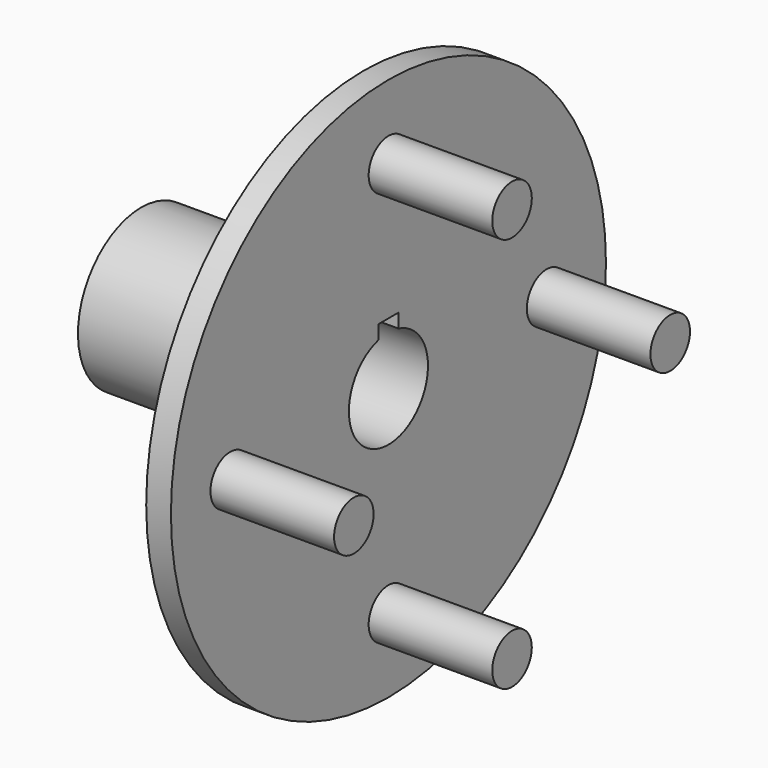
from build123d import *

# Parameters (mm, degrees)
F2_W     = 6.35
F2_H     = 6.35
F3_DEPTH = 63.501
F4_R     = 6.35
F5_DEPTH = 31.75


with BuildPart() as f1:
    # F0 (on Front) → F1 (revolve)
    with BuildSketch(Plane.XZ):
        Polygon((0, 20.32), (0, 12.7), (63.5, 12.7), (63.5, 69.85), (57.15, 69.85), (57.15, 20.32), align=None)
    revolve(axis=Axis((31.75, 0, 0), (1, 0, 0)))

    # F2 (on Right) → F3 (cut, through all)
    with BuildSketch(Plane.YZ):
        with Locations((0, 12.7)):
            Rectangle(F2_W, F2_H)
    extrude(amount=F3_DEPTH, mode=Mode.SUBTRACT)

    # F4 (on face) → F5 (join)
    with BuildSketch(Plane.YZ.offset(63.5)):
        with Locations((0, 50.8)):
            Circle(F4_R)
        with Locations((-50.8, 0)):
            Circle(F4_R)
        with Locations((0, -50.8)):
            Circle(F4_R)
        with Locations((50.8, 0)):
            Circle(F4_R)
    extrude(amount=F5_DEPTH)


solid = f1.part
